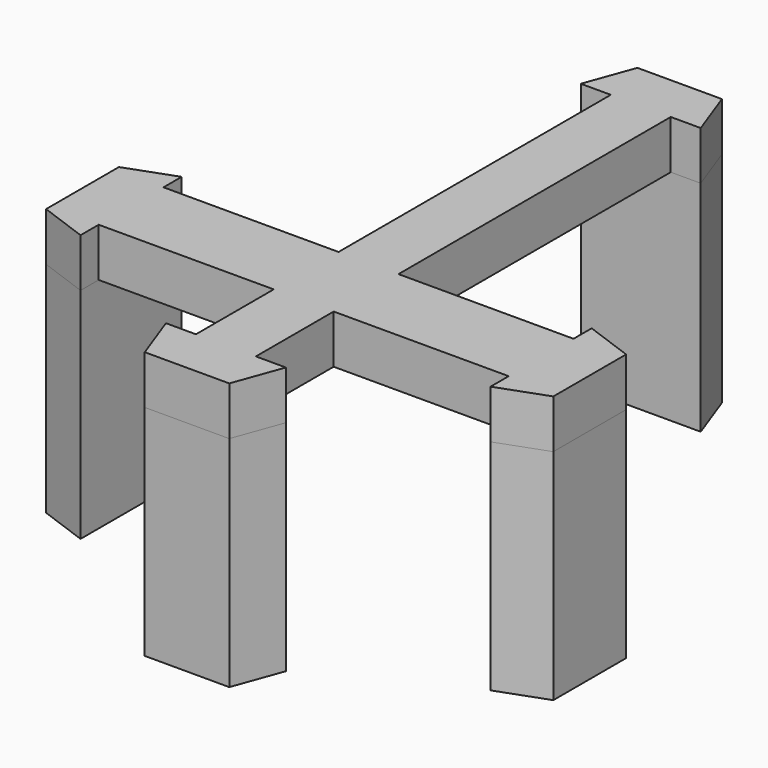
from build123d import *

# Parameters (mm, degrees)
F1_DEPTH = 13.5
F2_DEPTH = 3


with BuildPart() as f1:
    # F0 (on Top) → F1 (new body)
    with BuildSketch(Plane.XY):
        Polygon((12.65, -3.53964), (12.65, -4.93964), (12.65, -7.43964), (12.65, -9.93964), (12.65, -11.33964), (15.65, -10.247729), (15.65, -4.631551), align=None)
        Polygon((-12.65, -7.43964), (-12.65, -4.93964), (-12.65, -3.53964), (-15.65, -4.631551), (-15.65, -10.247729), (-12.65, -11.33964), (-12.65, -9.93964), align=None)
        Polygon((3.7, -15.93964), (1.85, -15.93964), (0, -15.93964), (-1.85, -15.93964), (-3.7, -15.93964), (-2.608089, -18.93964), (2.608089, -18.93964), align=None)
        Polygon((-1.85, 16.06036), (0, 16.06036), (1.85, 16.06036), (3.7, 16.06036), (2.608089, 19.06036), (-2.608089, 19.06036), (-3.7, 16.06036), align=None)
    extrude(amount=-F1_DEPTH)


with BuildPart() as f2:
    # F0 (on Top) → F2 (new body)
    with BuildSketch(Plane.XY):
        Polygon((-1.85, 16.06036), (0, 16.06036), (1.85, 16.06036), (3.7, 16.06036), (2.608089, 19.06036), (-2.608089, 19.06036), (-3.7, 16.06036), align=None)
        Polygon((1.85, 16.06036), (0, 16.06036), (-1.85, 16.06036), (-1.85, -4.93964), (-3.7, -4.93964), (-12.65, -4.93964), (-12.65, -7.43964), (-12.65, -9.93964), (-3.7, -9.93964), (-1.85, -9.93964), (-1.85, -15.93964), (0, -15.93964), (1.85, -15.93964), (1.85, -9.93964), (12.65, -9.93964), (12.65, -7.43964), (12.65, -4.93964), (3.7, -4.93964), (1.85, -4.93964), align=None)
        Polygon((12.65, -3.53964), (12.65, -4.93964), (12.65, -7.43964), (12.65, -9.93964), (12.65, -11.33964), (15.65, -10.247729), (15.65, -4.631551), align=None)
        Polygon((-12.65, -7.43964), (-12.65, -4.93964), (-12.65, -3.53964), (-15.65, -4.631551), (-15.65, -10.247729), (-12.65, -11.33964), (-12.65, -9.93964), align=None)
        Polygon((3.7, -15.93964), (1.85, -15.93964), (0, -15.93964), (-1.85, -15.93964), (-3.7, -15.93964), (-2.608089, -18.93964), (2.608089, -18.93964), align=None)
    extrude(amount=F2_DEPTH)


solid = Compound([f1.part, f2.part])
